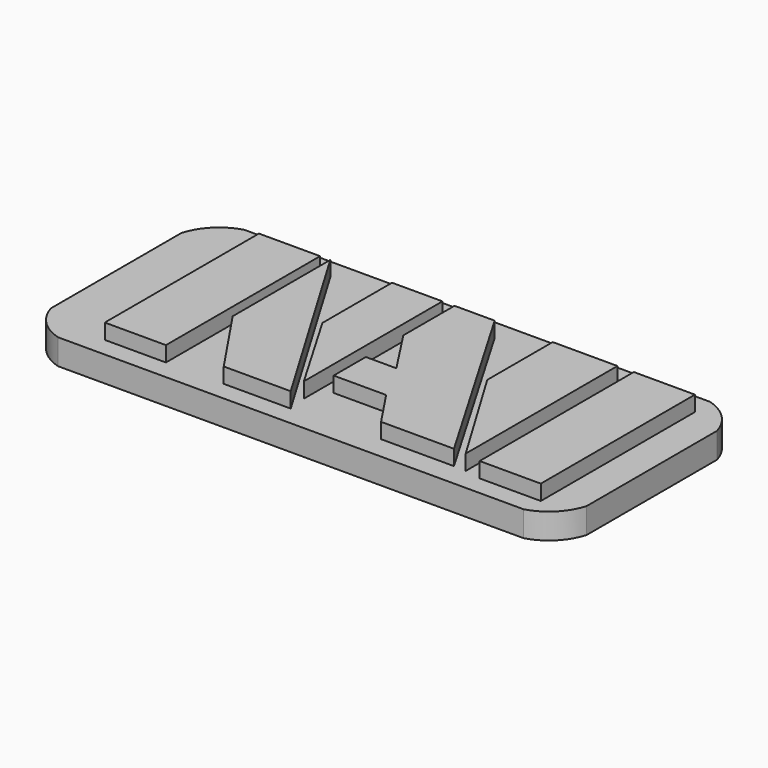
from build123d import *

# Parameters (mm, degrees)
F0_W     = 15.24
F0_H     = 48.024542
F0_H_2   = 48.0314
F1_DEPTH = 10.16
F2_DEPTH = 6.35


with BuildPart() as f1:
    # F0 (on Top) → F1 (new body)
    with BuildSketch(Plane.XY):
        with Locations((-43.806466, 6.397091)):
            Rectangle(F0_W, F0_H)
        Polygon((-33.646466, 0), (-21.779397, -17.61518), (-5.091332, -17.61518), (-33.646466, 30.409362), align=None)
        Polygon((-5.695198, 30.409362), (-18.25636, 30.409362), (-18.25636, 8.714878), (-5.695198, -12.770638), align=None)
        Polygon((7.324206, 30.409362), (-2.688632, 30.409362), (-2.688632, 14.46299), (4.913708, 2.781344), (-2.688632, 2.781344), (-2.688632, -7.247503), (10.397398, -7.247503), (16.701777, -16.704073), (34.868321, -16.704073), align=None)
        Polygon((37.918992, 30.409362), (21.787196, 30.409362), (21.787196, 10.012839), (37.918992, -16.873488), align=None)
        with Locations((49.618297, 6.393662)):
            Rectangle(F0_W, F0_H_2)
    extrude(amount=F1_DEPTH)


with BuildPart() as f2:
    # F0 (on Top) → F2 (new body)
    with BuildSketch(Plane.XY):
        with BuildLine():
            Line((56.832131, 35.592196), (-59.224266, 35.592196))
            ThreePointArc((-59.224266, 35.592196), (-64.707636, 32.363366), (-67.936466, 26.879996))
            Line((-67.936466, 26.879996), (-67.936466, -13.721297))
            ThreePointArc((-67.936466, -13.721297), (-64.707636, -19.204667), (-59.224266, -22.433497))
            Line((-59.224266, -22.433497), (56.832131, -22.433497))
            ThreePointArc((56.832131, -22.433497), (62.315501, -19.204667), (65.544331, -13.721297))
            Line((65.544331, -13.721297), (65.544331, 26.879996))
            ThreePointArc((65.544331, 26.879996), (62.315501, 32.363366), (56.832131, 35.592196))
        make_face()
        with Locations((-43.806466, 6.397091)):
            Rectangle(F0_W, F0_H, mode=Mode.SUBTRACT)
        Polygon((-5.091332, -17.61518), (-21.779397, -17.61518), (-33.646466, 0), (-33.646466, 30.409362), align=None, mode=Mode.SUBTRACT)
        with Locations((49.618297, 6.393662)):
            Rectangle(F0_W, F0_H_2, mode=Mode.SUBTRACT)
        Polygon((-18.25636, 8.714878), (-18.25636, 30.409362), (-5.695198, 30.409362), (-5.695198, -12.770638), align=None, mode=Mode.SUBTRACT)
        Polygon((-2.688632, 14.46299), (-2.688632, 30.409362), (7.324206, 30.409362), (34.868321, -16.704073), (16.701777, -16.704073), (10.397398, -7.247503), (-2.688632, -7.247503), (-2.688632, 2.781344), (4.913708, 2.781344), align=None, mode=Mode.SUBTRACT)
        Polygon((21.787196, 10.012839), (21.787196, 30.409362), (37.918992, 30.409362), (37.918992, -16.873488), align=None, mode=Mode.SUBTRACT)
    extrude(amount=F2_DEPTH)


solid = Compound([f1.part, f2.part])
